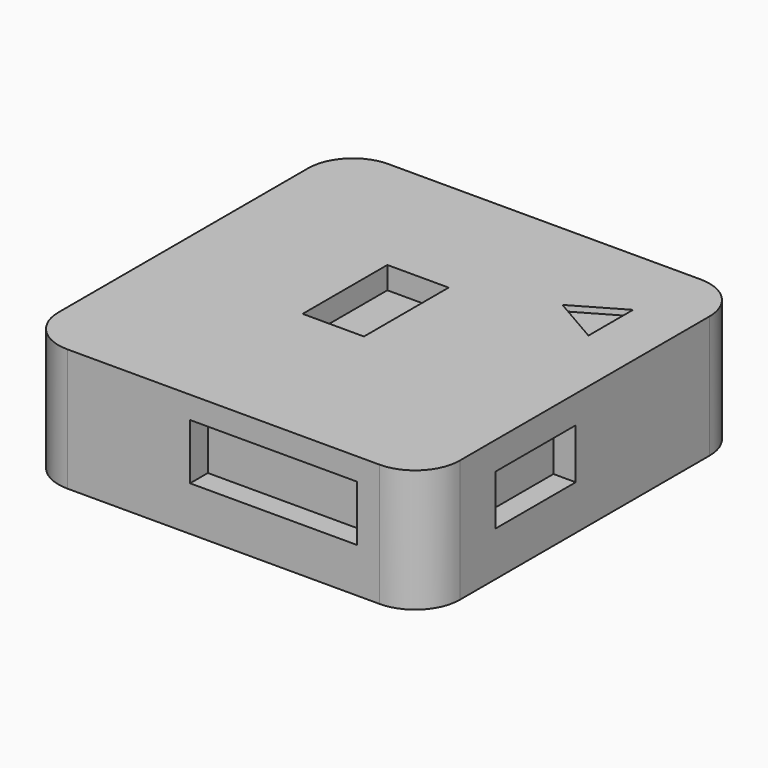
from build123d import *

# Parameters (mm, degrees)
F1_DEPTH  = 11
F2_W      = 15
F2_H      = 5
F3_DEPTH  = 2
F4_W      = 9
F4_H      = 4.5
F5_DEPTH  = 2
F6_W      = 14
F6_H      = 4.5
F6_W_2    = 8
F7_DEPTH  = 2
F8_W      = 5.5
F8_H      = 9.5
F9_DEPTH  = 2
F10_DEPTH = 0.5


with BuildPart() as f1:
    # F0 (on Top) → F1 (new body)
    with BuildSketch(Plane.XY):
        with BuildLine():
            Line((14, 18), (-14, 18))
            ThreePointArc((-14, 18), (-16.828427, 16.828427), (-18, 14))
            Line((-18, 14), (-18, -14))
            ThreePointArc((-18, -14), (-16.828427, -16.828427), (-14, -18))
            Line((-14, -18), (14, -18))
            ThreePointArc((14, -18), (16.828427, -16.828427), (18, -14))
            Line((18, -14), (18, 14))
            ThreePointArc((18, 14), (16.828427, 16.828427), (14, 18))
        make_face()
    extrude(amount=F1_DEPTH)

    # F2 (on face) → F3 (cut)
    with BuildSketch(Plane.XZ.offset(18)):
        with Locations((4.5, 6.5)):
            Rectangle(F2_W, F2_H)
    extrude(amount=-F3_DEPTH, mode=Mode.SUBTRACT)

    # F4 (on face) → F5 (cut)
    with BuildSketch(Plane.YZ.offset(18)):
        with Locations((-5.5, 6.25)):
            Rectangle(F4_W, F4_H)
    extrude(amount=-F5_DEPTH, mode=Mode.SUBTRACT)

    # F6 (on face) → F7 (cut)
    with BuildSketch(Plane(origin=(0, 18, 0), x_dir=(-1, 0, 0), z_dir=(0, 1, 0))):
        with Locations((-5, 6.15)):
            Rectangle(F6_W, F6_H)
        with Locations((8, 6.15)):
            Rectangle(F6_W_2, F6_H)
    extrude(amount=-F7_DEPTH, mode=Mode.SUBTRACT)

    # F8 (on face) → F9 (cut)
    with BuildSketch(Plane.XY.offset(11)):
        with Locations((-1.75, 1.25)):
            Rectangle(F8_W, F8_H)
    extrude(amount=-F9_DEPTH, mode=Mode.SUBTRACT)

    # F8 (on face) → F10 (cut)
    with BuildSketch(Plane.XY.offset(11)):
        Polygon((13.195144, 11.430887), (8.865017, 8.930887), (13.195144, 6.430887), align=None)
    extrude(amount=-F10_DEPTH, mode=Mode.SUBTRACT)


solid = f1.part
